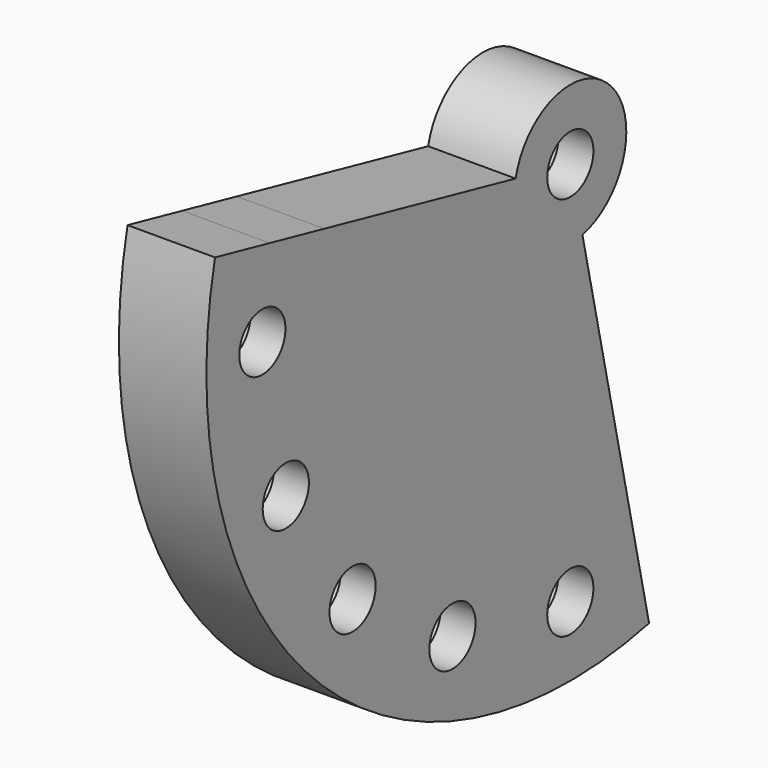
from build123d import *

# Parameters (mm, degrees)
F1_DEPTH       = 5
F2_D           = 3.3
F2_CBORE_D     = 6.5
F2_CBORE_DEPTH = 3


with BuildPart() as f1:
    # F0 (on Right) → F1 (new body)
    with BuildSketch(Plane.YZ):
        with BuildLine():
            Line((-21.4785121566, 4.7616715066), (-25.3836961851, 5.6274299624))
            ThreePointArc((-25.3836961851, 5.6274299624), (-18.3847763109, -18.3847763109), (5.6274299624, -25.3836961851))
            Line((5.6274299624, -25.3836961851), (4.7616715066, -21.4785121566))
            ThreePointArc((4.7616715066, -21.4785121566), (2.3950712467, -21.8692394409), (0, -22))
            ThreePointArc((0, -22), (-4.2919870844, -21.5772761689), (-8.419035512, -20.3253497152))
            ThreePointArc((-8.419035512, -20.3253497152), (-12.2225451264, -18.2923314707), (-15.5563491861, -15.5563491861))
            ThreePointArc((-15.5563491861, -15.5563491861), (-18.2923314707, -12.2225451264), (-20.3253497152, -8.419035512))
            ThreePointArc((-20.3253497152, -8.419035512), (-21.5772761689, -4.2919870844), (-22, 0))
            ThreePointArc((-22, 0), (-21.8692394409, 2.3950712467), (-21.4785121566, 4.7616715066))
        make_face()
        with BuildLine():
            Line((-17.5733281282, 3.8959130509), (-21.4785121566, 4.7616715066))
            ThreePointArc((-21.4785121566, 4.7616715066), (-21.8692394409, 2.3950712467), (-22, 0))
            ThreePointArc((-22, 0), (-21.5772761689, -4.2919870844), (-20.3253497152, -8.419035512))
            ThreePointArc((-20.3253497152, -8.419035512), (-18.2923314707, -12.2225451264), (-15.5563491861, -15.5563491861))
            ThreePointArc((-15.5563491861, -15.5563491861), (-12.2225451264, -18.2923314707), (-8.419035512, -20.3253497152))
            ThreePointArc((-8.419035512, -20.3253497152), (-4.2919870844, -21.5772761689), (0, -22))
            ThreePointArc((0, -22), (2.3950712467, -21.8692394409), (4.7616715066, -21.4785121566))
            Line((4.7616715066, -21.4785121566), (3.8959130509, -17.5733281282))
            ThreePointArc((3.8959130509, -17.5733281282), (-12.7279220614, -12.7279220614), (-17.5733281282, 3.8959130509))
        make_face()
        with BuildLine():
            Line((-3.9051840285, 0.8657584558), (-17.5733281282, 3.8959130509))
            ThreePointArc((-17.5733281282, 3.8959130509), (-12.7279220614, -12.7279220614), (3.8959130509, -17.5733281282))
            Line((3.8959130509, -17.5733281282), (0.8657584558, -3.9051840285))
            Line((0.8657584558, -3.9051840285), (0, 0))
            Line((0, 0), (-3.9051840285, 0.8657584558))
        make_face()
        with BuildLine():
            ThreePointArc((0.8657584558, -3.9051840285), (2.8284271247, 2.8284271247), (-3.9051840285, 0.8657584558))
            Line((-3.9051840285, 0.8657584558), (0, 0))
            Line((0, 0), (0.8657584558, -3.9051840285))
        make_face()
    extrude(amount=F1_DEPTH)

    # F2 (through all)
    with Locations(Plane(origin=(0, 0, 0), x_dir=(0, 1, 0), z_dir=(-1, 0, 0))):
        with Locations((-22, 0), (-20.3253497152, 8.419035512), (-15.5563491861, 15.5563491861), (-8.419035512, 20.3253497152), (0, 22), (0, 0)):
            CounterBoreHole(F2_D / 2, F2_CBORE_D / 2, F2_CBORE_DEPTH)


solid = f1.part
